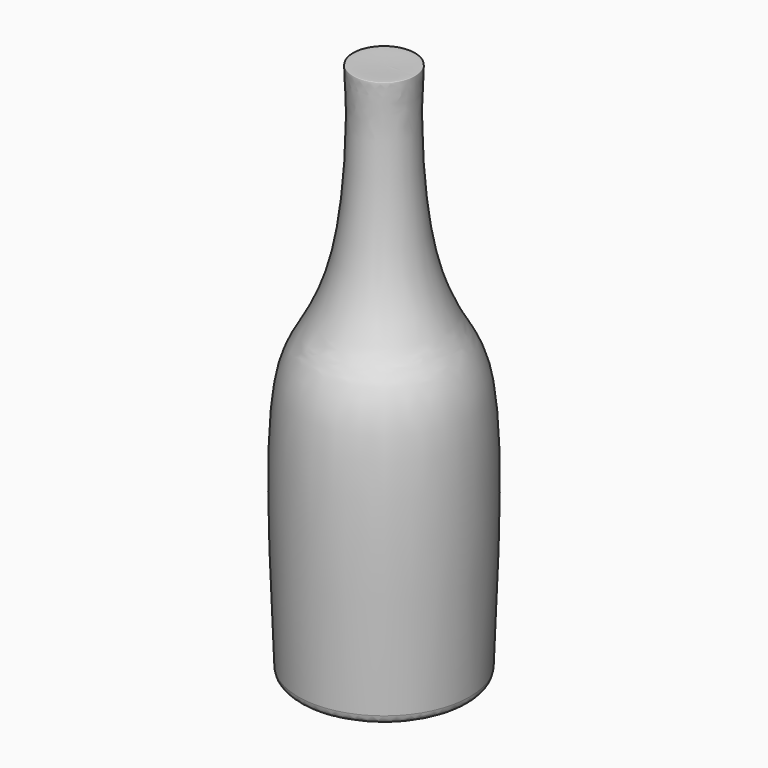
from build123d import *

# Parameters (mm, degrees)
F3_R = 3.6079230234


with BuildPart() as f1:
    # F0 (on Front) → F1 (revolve)
    with BuildSketch(Plane.XZ):
        with BuildLine():
            Line((0, 208.1870753478), (0, 8.4141669795))
            add(Edge.make_bspline(
                [(32.5782478581, 0.0273993059), (28.0350472125, 0), (25.8694923917, 7.2849523171), (15.5028260914, 8.2745181957), (5.232066017, 9.3825120416), (0, 8.4141669795)],
                knots=[0, 0, 0, 0, 0.3056416992, 0.6066278765, 1, 1, 1, 1], degree=3))
            add(Edge.make_bspline(
                [(32.5782478581, 0.0273993059), (33.859658679, 33.656850892), (37.5851523293, 102.0151413794), (24.4372373406, 120.0626083798), (13.316908119, 144.8891281067), (10.6370451722, 189.80319068), (12.1091883817, 208.0840482391), (11.5921192018, 208.5471316488), (5.3150347941, 208.1358336202), (0, 208.1870753478)],
                knots=[0, 0, 0, 0, 0.2928195756, 0.4242071192, 0.5715721727, 0.7732683613, 0.8862863161, 0.900783023, 1, 1, 1, 1], degree=3))
        make_face()
    revolve(axis=Axis((0, 0, 105), (0, 0, 1)))

    # F3
    f3_edges = [f1.edges().sort_by_distance(p)[0] for p in [
        (-32.578248, 0, 0.027399),
        (29.780268, 0, 111.474749),
    ]]
    fillet(f3_edges, radius=F3_R)


solid = f1.part
